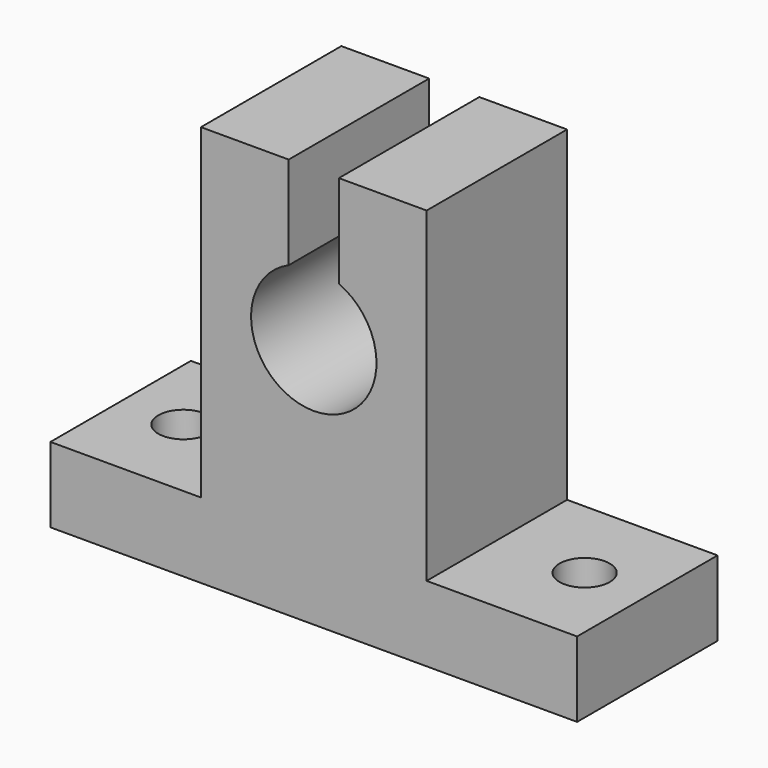
from build123d import *

# Parameters (mm, degrees)
F0_W      = 42
F0_H      = 14
F1_DEPTH  = 6
F2_W      = 18
F2_H      = 14
F3_DEPTH  = 26
F4_R      = 5
F5_DEPTH  = 14
F7_W      = 4
F7_H      = 14
F8_DEPTH  = 14
F10_R     = 2
F11_DEPTH = 25


with BuildPart() as f1:
    # F0 (on Top) → F1 (new body)
    with BuildSketch(Plane.XY):
        Rectangle(F0_W, F0_H)
    extrude(amount=F1_DEPTH)

    # F2 (on face) → F3 (join)
    with BuildSketch(Plane.XY.offset(6)):
        Rectangle(F2_W, F2_H)
    extrude(amount=F3_DEPTH)

    # F4 (on face) → F5 (cut, through all)
    with BuildSketch(Plane.XZ.offset(7)):
        with Locations((0, 20)):
            Circle(F4_R)
    extrude(amount=-F5_DEPTH, mode=Mode.SUBTRACT)

    # F7 (on face) → F8 (cut)
    with BuildSketch(Plane.XY.offset(32)):
        Rectangle(F7_W, F7_H)
    extrude(amount=-F8_DEPTH, mode=Mode.SUBTRACT)

    # F10 (on face) → F11 (cut)
    with BuildSketch(Plane(origin=(0, 0, 0), x_dir=(1, 0, 0), z_dir=(0, 0, -1))):
        with Locations((16, 0)):
            Circle(F10_R)
        with Locations((-16, 0)):
            Circle(F10_R)
    extrude(amount=-F11_DEPTH, mode=Mode.SUBTRACT)


solid = f1.part
